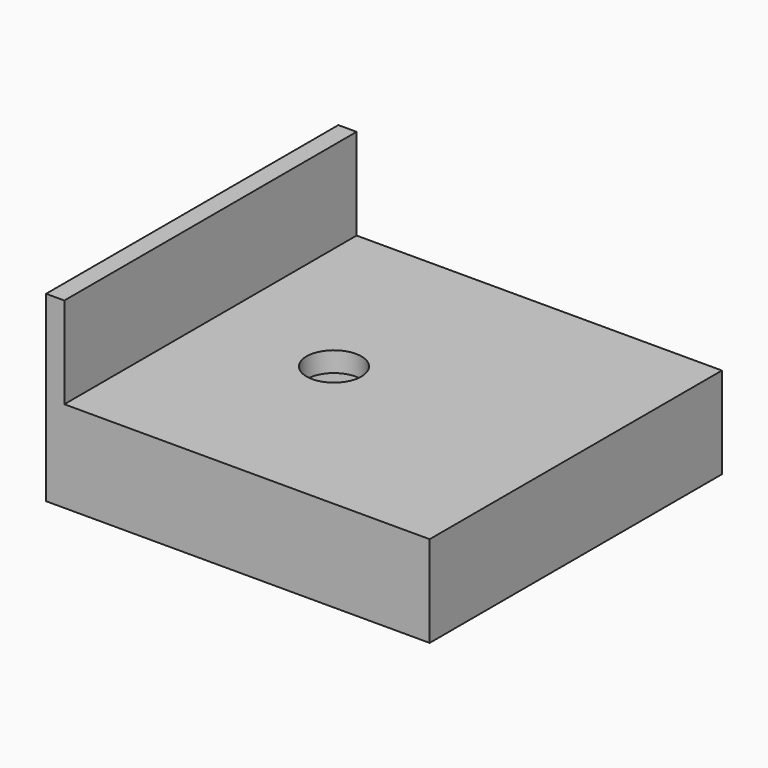
from build123d import *

# Parameters (mm, degrees)
F0_W           = 1
F0_H           = 20
F1_DEPTH       = 10
F0_W_2         = 20
F2_DEPTH       = 5
F4_D           = 3
F4_CBORE_D     = 7
F4_CBORE_DEPTH = 3.9


with BuildPart() as f1:
    # F0 (on Top) → F1 (new body)
    with BuildSketch(Plane.XY):
        with Locations((-28.8674156551, -7.5615978579)):
            Rectangle(F0_W, F0_H)
    extrude(amount=F1_DEPTH)

    # F0 (on Top) → F2 (join)
    with BuildSketch(Plane.XY):
        with Locations((-18.3674156551, -7.5615978579)):
            Rectangle(F0_W_2, F0_H)
        with Locations((-28.8674156551, -7.5615978579)):
            Rectangle(F0_W, F0_H)
    extrude(amount=F2_DEPTH)

    # F4 (through all)
    with Locations(Plane(origin=(0, 0, 0), x_dir=(1, 0, 0), z_dir=(0, 0, -1))):
        with Locations((-21.5535256551, 7.6278164051)):
            CounterBoreHole(F4_D / 2, F4_CBORE_D / 2, F4_CBORE_DEPTH)


solid = f1.part
